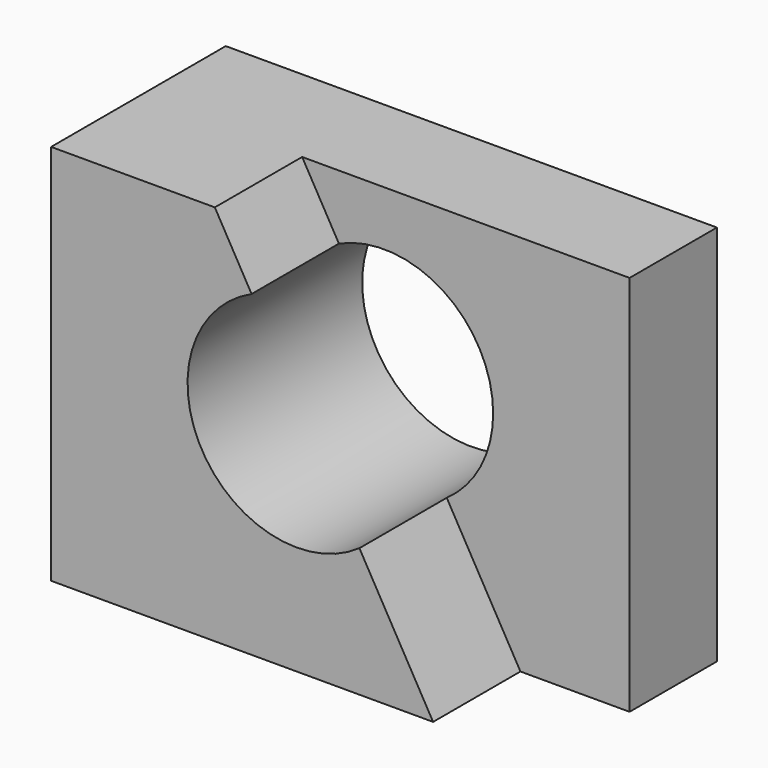
from build123d import *

# Parameters (mm, degrees)
F0_W     = 25.4
F0_H     = 44.45
F1_DEPTH = 57.15
F2_R     = 12.7
F3_DEPTH = 25.4
F4_W     = 12.7
F4_H     = 44.45
F5_DEPTH = 12.7


with BuildPart() as f1:
    # F0 (on Right) → F1 (new body)
    with BuildSketch(Plane.YZ):
        with Locations((12.7, 22.225)):
            Rectangle(F0_W, F0_H)
    extrude(amount=F1_DEPTH)

    # F2 (on face) → F3 (cut)
    with BuildSketch(Plane.XZ):
        with Locations((28.575, 25.4)):
            Circle(F2_R)
    extrude(amount=-F3_DEPTH, mode=Mode.SUBTRACT)

    # F4 (on face) → F5 (cut)
    with BuildSketch(Plane.XZ):
        with BuildLine():
            Line((44.45, 0), (44.45, 44.45))
            Line((44.45, 44.45), (19.05, 44.45))
            Line((19.05, 44.45), (23.3271277432, 36.9650264494))
            ThreePointArc((23.3271277432, 36.9650264494), (35.4540269057, 36.0756259222), (41.275, 25.4))
            ThreePointArc((41.275, 25.4), (39.8442616467, 19.5439141111), (35.8744107184, 15.0072812429))
            Line((35.8744107184, 15.0072812429), (44.45, 0))
        make_face()
        with Locations((50.8, 22.225)):
            Rectangle(F4_W, F4_H)
    extrude(amount=-F5_DEPTH, mode=Mode.SUBTRACT)


solid = f1.part
